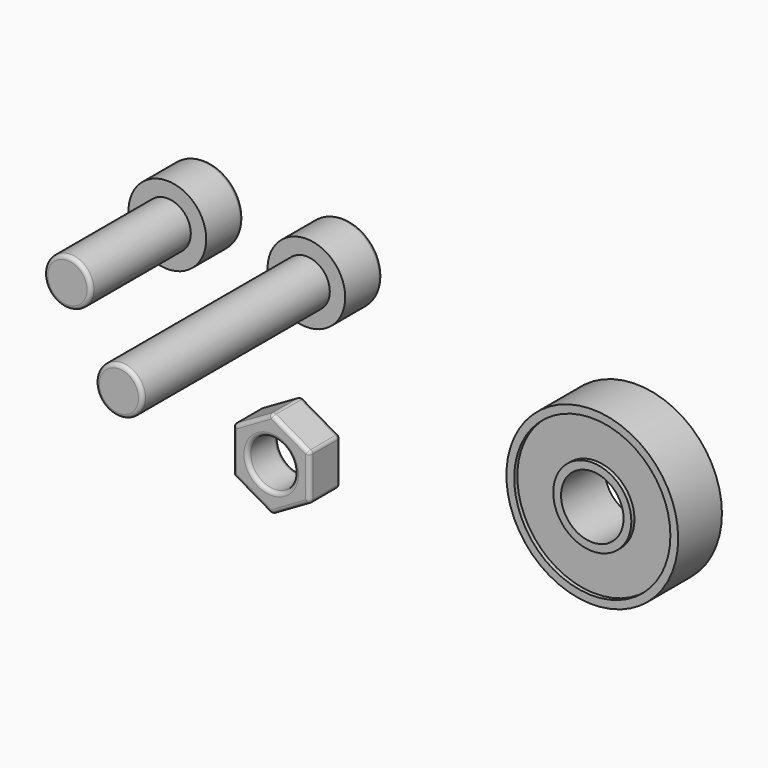
from build123d import *

# Parameters (mm, degrees)
F0_R     = 10
F0_R_2   = 5
F1_DEPTH = 3
F0_R_3   = 11
F0_R_4   = 4
F2_DEPTH = 3.5
F3_R     = 4.975
F3_R_2   = 3
F4_DEPTH = 5.95
F5_DEPTH = 30
F6_DEPTH = 16
F7_DEPTH = 4.95
F8_R     = 0.5
F8_2_R   = 0.5
F8_3_R   = 0.5


with BuildPart() as f1:
    # F0 (on Front) → F1 (new body, symmetric)
    with BuildSketch(Plane.XZ):
        Circle(F0_R)
        Circle(F0_R_2, mode=Mode.SUBTRACT)
    extrude(amount=F1_DEPTH, both=True)

    # F0 (on Front) → F2 (join, symmetric)
    with BuildSketch(Plane.XZ):
        Circle(F0_R_3)
        Circle(F0_R, mode=Mode.SUBTRACT)
        Circle(F0_R_2)
        Circle(F0_R_4, mode=Mode.SUBTRACT)
    extrude(amount=F2_DEPTH, both=True)


with BuildPart() as f4:
    # F3 (on Front) → F4 (new body)
    with BuildSketch(Plane.XZ):
        with Locations((-57.2151634924, 11.7548853159)):
            Circle(F3_R)
        with Locations((-57.2151634924, 11.7548853159)):
            Circle(F3_R_2, mode=Mode.SUBTRACT)
        with Locations((-57.2151634924, 11.7548853159)):
            Circle(F3_R_2)
        Polygon((-57.2151634924, 14.6416366618), (-54.7151634924, 13.1982609889), (-54.7151634924, 10.3115096429), (-57.2151634924, 8.8681339699), (-59.7151634924, 10.3115096429), (-59.7151634924, 13.1982609889), align=None, mode=Mode.SUBTRACT)
    extrude(amount=-F4_DEPTH)

    # F3 (on Front) → F6 (join)
    with BuildSketch(Plane.XZ):
        with Locations((-57.2151634924, 11.7548853159)):
            Circle(F3_R_2)
        Polygon((-57.2151634924, 14.6416366618), (-54.7151634924, 13.1982609889), (-54.7151634924, 10.3115096429), (-57.2151634924, 8.8681339699), (-59.7151634924, 10.3115096429), (-59.7151634924, 13.1982609889), align=None, mode=Mode.SUBTRACT)
        Polygon((-54.7151634924, 10.3115096429), (-54.7151634924, 13.1982609889), (-57.2151634924, 14.6416366618), (-59.7151634924, 13.1982609889), (-59.7151634924, 10.3115096429), (-57.2151634924, 8.8681339699), align=None)
    extrude(amount=F6_DEPTH)

    # F8#3
    f8_3_edges = [f4.edges().sort_by_distance(p)[0] for p in [
        (-60.215163, -16, 11.754885),
        (-55.965163, 5.95, 13.919949),
        (-54.715163, 5.95, 11.754885),
        (-55.965163, 5.95, 9.589822),
        (-58.465163, 5.95, 9.589822),
        (-59.715163, 5.95, 11.754885),
        (-58.465163, 5.95, 13.919949),
        (-62.190163, 5.95, 11.754885),
    ]]
    fillet(f8_3_edges, radius=F8_3_R)


with BuildPart() as f4b:
    # F3 (on Front) → F4, piece 2 (new body)
    with BuildSketch(Plane.XZ):
        with Locations((-39.4156093083, 11.0115092248)):
            Circle(F3_R)
        with Locations((-39.4156093083, 11.0115092248)):
            Circle(F3_R_2, mode=Mode.SUBTRACT)
        with Locations((-39.4156093083, 11.0115092248)):
            Circle(F3_R_2)
        Polygon((-39.4156093083, 13.8982605707), (-36.9156093083, 12.4548848977), (-36.9156093083, 9.5681335518), (-39.4156093083, 8.1247578788), (-41.9156093083, 9.5681335518), (-41.9156093083, 12.4548848977), align=None, mode=Mode.SUBTRACT)
    extrude(amount=-F4_DEPTH)

    # F3 (on Front) → F5 (join)
    with BuildSketch(Plane.XZ):
        with Locations((-39.4156093083, 11.0115092248)):
            Circle(F3_R_2)
        Polygon((-39.4156093083, 13.8982605707), (-36.9156093083, 12.4548848977), (-36.9156093083, 9.5681335518), (-39.4156093083, 8.1247578788), (-41.9156093083, 9.5681335518), (-41.9156093083, 12.4548848977), align=None, mode=Mode.SUBTRACT)
        Polygon((-36.9156093083, 9.5681335518), (-36.9156093083, 12.4548848977), (-39.4156093083, 13.8982605707), (-41.9156093083, 12.4548848977), (-41.9156093083, 9.5681335518), (-39.4156093083, 8.1247578788), align=None)
    extrude(amount=F5_DEPTH)

    # F8
    f8_edges = [f4b.edges().sort_by_distance(p)[0] for p in [
        (-38.165609, 5.95, 13.176573),
        (-36.915609, 5.95, 11.011509),
        (-38.165609, 5.95, 8.846446),
        (-40.665609, 5.95, 8.846446),
        (-41.915609, 5.95, 11.011509),
        (-40.665609, 5.95, 13.176573),
        (-44.390609, 5.95, 11.011509),
        (-42.415609, -30, 11.011509),
    ]]
    fillet(f8_edges, radius=F8_R)


with BuildPart() as f7:
    # F3 (on Front) → F7 (new body)
    with BuildSketch(Plane.XZ):
        Polygon((-44.885950613, -10.4555048829), (-39.960950613, -13.2989549586), (-35.035950613, -10.4555048829), (-35.035950613, -4.7686047314), (-39.960950613, -1.9251546556), (-44.885950613, -4.7686047314), align=None)
        with Locations((-39.960950613, -7.6120548071)):
            Circle(F3_R_2, mode=Mode.SUBTRACT)
    extrude(amount=F7_DEPTH)

    # F8#2
    f8_2_edges = [f7.edges().sort_by_distance(p)[0] for p in [
        (-44.885951, 0, -7.612055),
        (-42.423451, 0, -11.87723),
        (-37.498451, 0, -11.87723),
        (-35.035951, 0, -7.612055),
        (-37.498451, 0, -3.34688),
        (-42.423451, 0, -3.34688),
        (-42.960951, 0, -7.612055),
        (-44.885951, -4.95, -7.612055),
        (-42.423451, -4.95, -11.87723),
        (-37.498451, -4.95, -11.87723),
        (-35.035951, -4.95, -7.612055),
        (-37.498451, -4.95, -3.34688),
        (-42.423451, -4.95, -3.34688),
        (-42.960951, -4.95, -7.612055),
        (-39.960951, -2.475, -1.925155),
        (-35.035951, -2.475, -4.768605),
        (-44.885951, -2.475, -4.768605),
        (-44.885951, -2.475, -10.455505),
        (-39.960951, -2.475, -13.298955),
        (-35.035951, -2.475, -10.455505),
    ]]
    fillet(f8_2_edges, radius=F8_2_R)


solid = Compound([f1.part, f4.part, f4b.part, f7.part])
